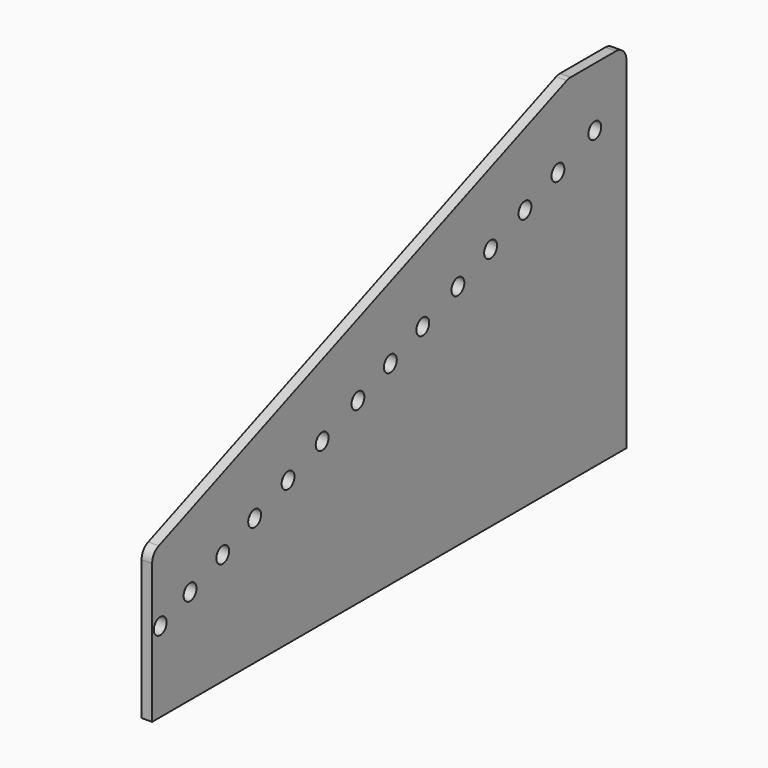
from build123d import *

# Parameters (mm, degrees)
F0_R     = 3.100498
F1_DEPTH = 4.064
F2_R     = 5.08


with BuildPart() as f1:
    # F0 (on Right) → F1 (new body)
    with BuildSketch(Plane.YZ):
        Polygon((-110.349961, 5.712933), (-110.349961, -51.461264), (118.143998, -51.461264), (118.143998, 85.298181), (90.28247, 85.298181), align=None)
        with Locations((-106.447847, -20.505097)):
            Circle(F0_R, mode=Mode.SUBTRACT)
        with Locations((-92.076812, -14.804511)):
            Circle(F0_R, mode=Mode.SUBTRACT)
        with Locations((-76.339489, -8.561957)):
            Circle(F0_R, mode=Mode.SUBTRACT)
        with Locations((-60.95832, -2.46068)):
            Circle(F0_R, mode=Mode.SUBTRACT)
        with Locations((-44.866651, 3.922433)):
            Circle(F0_R, mode=Mode.SUBTRACT)
        with Locations((-28.430619, 10.442145)):
            Circle(F0_R, mode=Mode.SUBTRACT)
        with Locations((-11.20806, 17.27385)):
            Circle(F0_R, mode=Mode.SUBTRACT)
        with Locations((4.416042, 23.471493)):
            Circle(F0_R, mode=Mode.SUBTRACT)
        with Locations((20.038726, 29.668572)):
            Circle(F0_R, mode=Mode.SUBTRACT)
        with Locations((36.965934, 36.38312)):
            Circle(F0_R, mode=Mode.SUBTRACT)
        with Locations((52.71062, 42.628594)):
            Circle(F0_R, mode=Mode.SUBTRACT)
        with Locations((69.271646, 49.197888)):
            Circle(F0_R, mode=Mode.SUBTRACT)
        with Locations((85.138393, 55.491781)):
            Circle(F0_R, mode=Mode.SUBTRACT)
        with Locations((102.904496, 62.539094)):
            Circle(F0_R, mode=Mode.SUBTRACT)
    extrude(amount=F1_DEPTH)

    # F2
    f2_edges = [f1.edges().sort_by_distance(p)[0] for p in [
        (2.032, -110.349961, 5.712933),
        (2.032, 118.143998, 85.298181),
        (2.032, 90.28247, 85.298181),
    ]]
    fillet(f2_edges, radius=F2_R)


solid = f1.part
